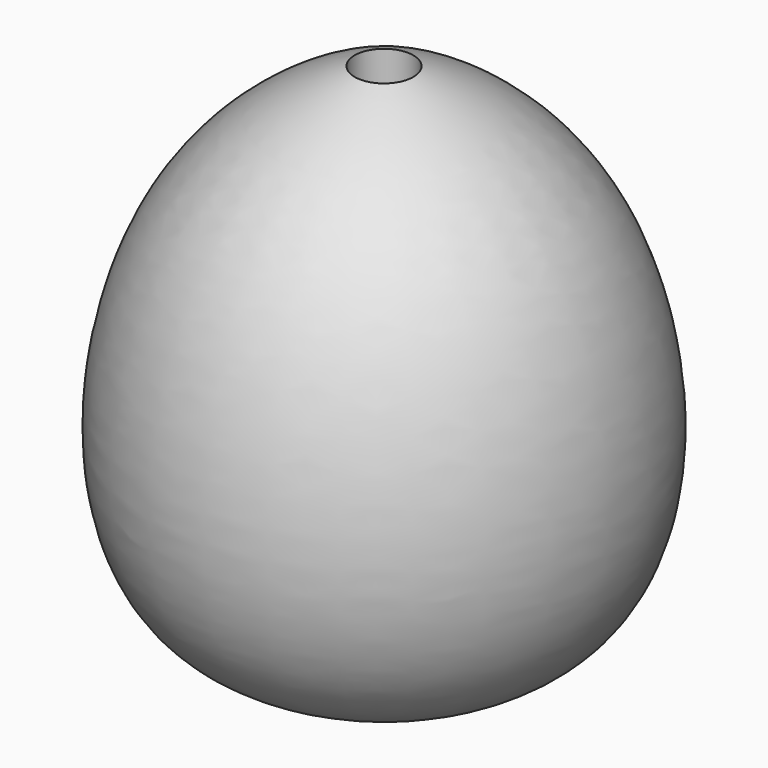
from build123d import *


with BuildPart() as f1:
    # F0 (on Front) → F1 (revolve)
    with BuildSketch(Plane.XZ):
        with BuildLine():
            add(Edge.make_bspline(
                [(-6.35, 63.5), (-19.843990004, 58.2563924342), (-51.5536334163, 37.1099232133), (-56.9635859312, -49.3082946041), (-2.7630175617, -53.5281927298), (0, -50.8)],
                knots=[0, 0, 0, 0, 0.3220065624, 0.708634866, 1, 1, 1, 1], degree=3))
            Line((0, -50.8), (0, 50.8))
            Line((0, 50.8), (-6.35, 50.8))
            Line((-6.35, 50.8), (-6.35, 63.5))
        make_face()
    revolve(axis=Axis((0, 0, 0), (0, 0, 1)))


solid = f1.part
